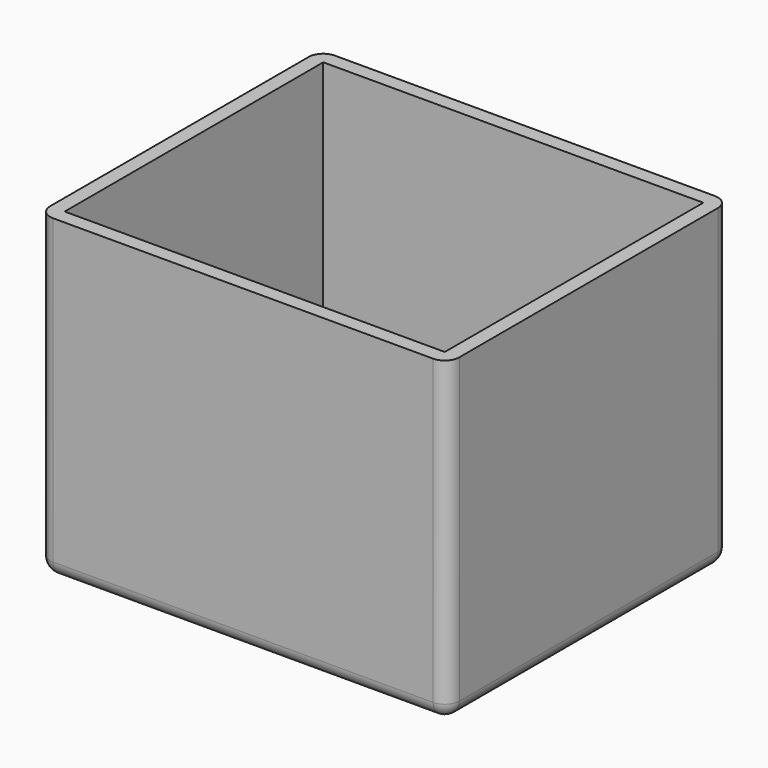
from build123d import *

# Parameters (mm, degrees)
SKETCH_W    = 31.4
SKETCH_H    = 26.7
PAD_DEPTH   = 25
THICKNESS_T = 1.2
SKETCH001_R = 12.75
HOLE_DEPTH  = 25


with BuildPart() as part:
    # Sketch → Pad (new body)
    with BuildSketch(Plane.XY):
        Rectangle(SKETCH_W, SKETCH_H)
    extrude(amount=PAD_DEPTH)

    # Thickness
    thickness_openings = [part.faces().sort_by_distance(p)[0] for p in [
        (0, 0, 25),
    ]]
    offset(amount=THICKNESS_T, openings=thickness_openings)

    # Sketch001 (on Face5 of Thickness) → Hole (cut)
    with BuildSketch(Plane.XY):
        Circle(SKETCH001_R)
    extrude(amount=-HOLE_DEPTH, mode=Mode.SUBTRACT)


solid = part.part
